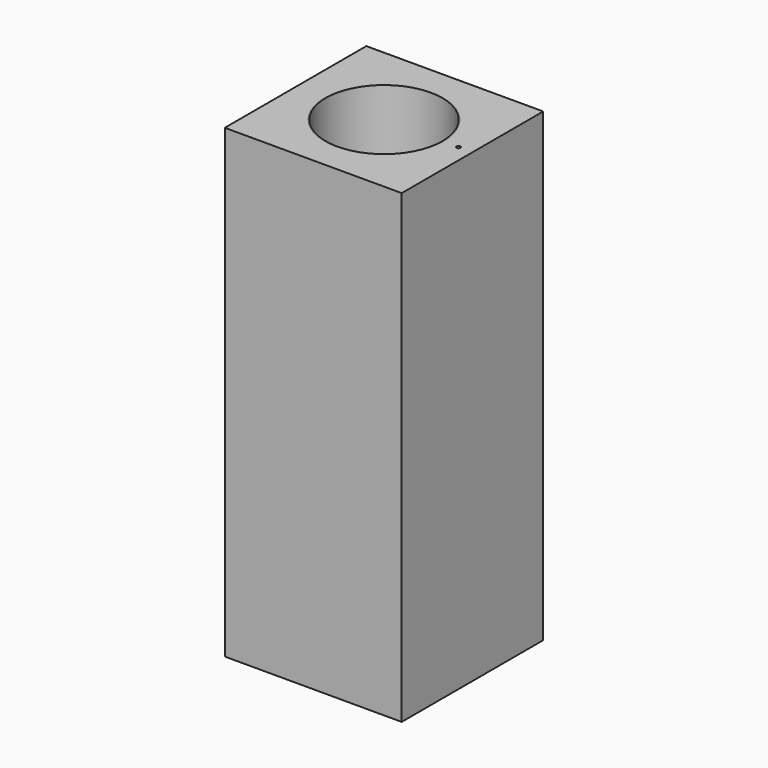
from build123d import *

# Parameters (mm, degrees)
F0_W     = 380
F0_H     = 380
F0_R     = 127.5
F1_DEPTH = 1000
F3_D     = 8.5
F3_DEPTH = 34.5
F3_TIP   = 2.5536576309
F4_R     = 127.5
F4_R_2   = 125.5
F5_DEPTH = 1000


with BuildPart() as f1:
    # F0 (on Top) → F1 (new body)
    with BuildSketch(Plane.XY):
        Rectangle(F0_W, F0_H)
        Circle(F0_R, mode=Mode.SUBTRACT)
    extrude(amount=F1_DEPTH)

    # F3
    with Locations(Plane.XY.offset(1000)):
        with Locations((160, 0)):
            Hole(F3_D / 2, depth=F3_DEPTH)
            with Locations((0, 0, -(F3_DEPTH + F3_TIP / 2))):  # 118° drill point
                Cone(0, F3_D / 2, F3_TIP, mode=Mode.SUBTRACT)


with BuildPart() as f5:
    # F4 (on Top) → F5 (new body, through all)
    with BuildSketch(Plane.XY):
        Circle(F4_R)
        Circle(F4_R_2, mode=Mode.SUBTRACT)
    extrude(amount=F5_DEPTH)


solid = Compound([f1.part, f5.part])
